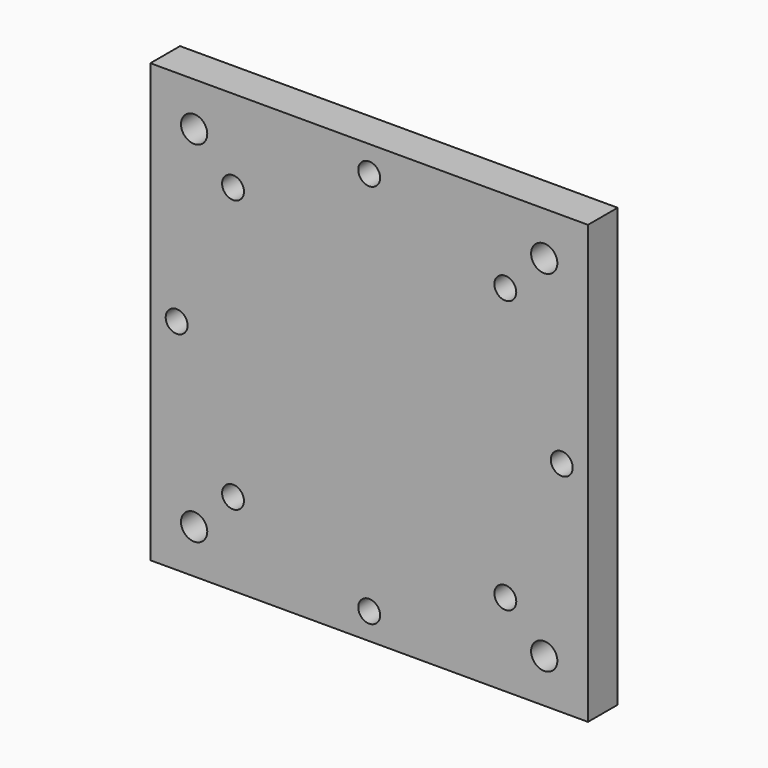
from build123d import *

# Parameters (mm, degrees)
F0_W     = 150
F0_H     = 150
F1_DEPTH = 12.7
F2_R     = 4.5
F2_R_2   = 3.75
F3_DEPTH = 12.701


with BuildPart() as f1:
    # F0 (on Front) → F1 (new body)
    with BuildSketch(Plane.XZ):
        Rectangle(F0_W, F0_H)
    extrude(amount=F1_DEPTH)

    # F2 (on Front) → F3 (cut, through all)
    with BuildSketch(Plane.XZ):
        with Locations((-60, 60)):
            Circle(F2_R)
        with Locations((60, 60)):
            Circle(F2_R)
        with Locations((-60, -60)):
            Circle(F2_R)
        with Locations((60, -60)):
            Circle(F2_R)
        with Locations((0, 66)):
            Circle(F2_R_2)
        with Locations((-46.669048, 46.669048)):
            Circle(F2_R_2)
        with Locations((-66, 0)):
            Circle(F2_R_2)
        with Locations((-46.669048, -46.669048)):
            Circle(F2_R_2)
        with Locations((0, -66)):
            Circle(F2_R_2)
        with Locations((46.669048, -46.669048)):
            Circle(F2_R_2)
        with Locations((66, 0)):
            Circle(F2_R_2)
        with Locations((46.669048, 46.669048)):
            Circle(F2_R_2)
    extrude(amount=F3_DEPTH, mode=Mode.SUBTRACT)


solid = f1.part
